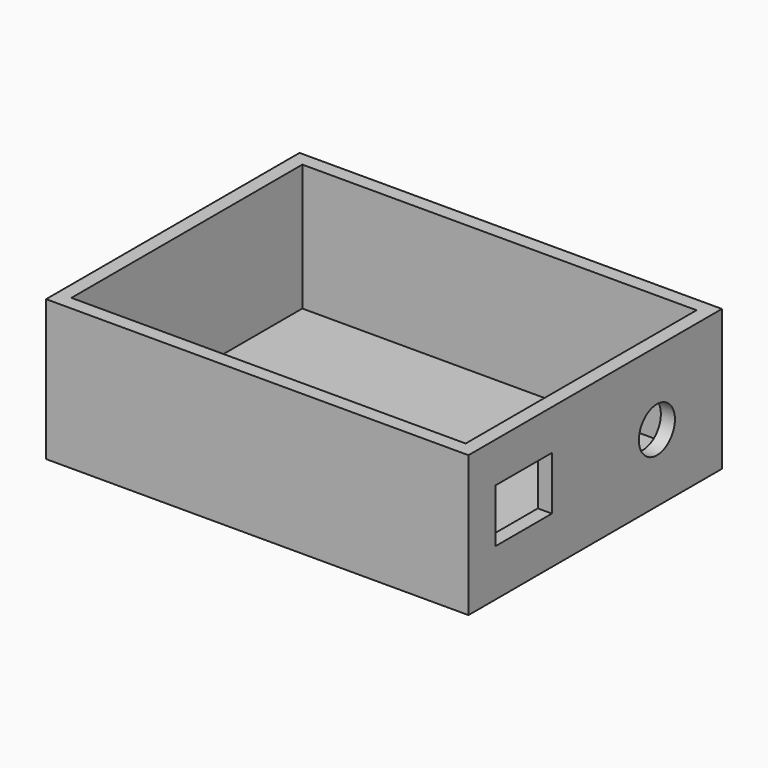
from build123d import *

# Parameters (mm, degrees)
F0_W     = 76.2
F0_H     = 25.4
F1_DEPTH = 28.575
F2_T     = -2.54
F3_R     = 4.064
F4_DEPTH = 2.54
F5_W     = 12.7
F5_H     = 9.652
F6_DEPTH = 2.54


with BuildPart() as f1:
    # F0 (on Front) → F1 (new body, symmetric)
    with BuildSketch(Plane.XZ):
        with Locations((0.107829, -13.494317)):
            Rectangle(F0_W, F0_H)
    extrude(amount=F1_DEPTH, both=True)

    # F2
    f2_openings = [f1.faces().sort_by_distance(p)[0] for p in [
        (0.107829, 0, -0.794317),
    ]]
    offset(amount=F2_T, openings=f2_openings)

    # F3 (on face) → F4 (cut, through all)
    with BuildSketch(Plane.YZ.offset(38.207829)):
        with Locations((13.913971, -14.016682)):
            Circle(F3_R)
    extrude(amount=-F4_DEPTH, mode=Mode.SUBTRACT)

    # F5 (on face) → F6 (cut, through all)
    with BuildSketch(Plane.YZ.offset(38.207829)):
        with Locations((-16.11085, -12.890838)):
            Rectangle(F5_W, F5_H)
    extrude(amount=-F6_DEPTH, mode=Mode.SUBTRACT)


solid = f1.part
